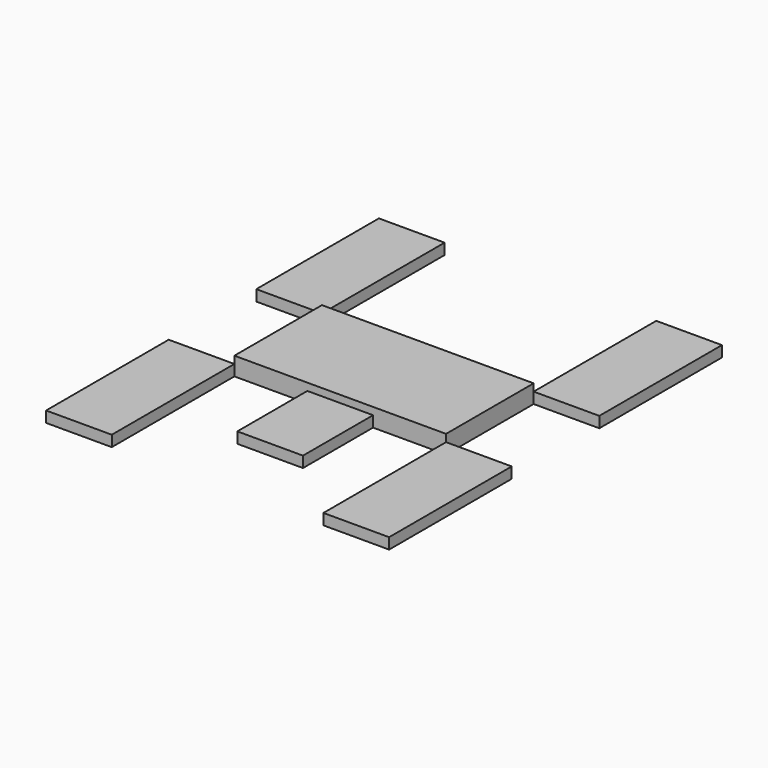
from build123d import *

# Parameters (mm, degrees)
F0_W     = 1473.2
F0_H     = 762
F1_DEPTH = 127
F3_START = -50.8
F2_W     = 457.2
F2_H     = 1066.8
F3_DEPTH = 76.2
F5_START = -50.8
F4_W     = 457.2
F4_H     = 609.6
F5_DEPTH = 76.2


with BuildPart() as f1:
    # F0 (on Top) → F1 (new body)
    with BuildSketch(Plane.XY):
        with Locations((736.6, 381)):
            Rectangle(F0_W, F0_H)
    extrude(amount=F1_DEPTH)


with BuildPart() as f3:
    # F2 (on face) → F3 (new body)
    with BuildSketch(Plane.XY.offset(127).offset(F3_START)):
        with Locations((1701.8, 1295.4)):
            Rectangle(F2_W, F2_H)
    extrude(amount=-F3_DEPTH)


with BuildPart() as f3b:
    # F2 (on face) → F3, piece 2 (new body)
    with BuildSketch(Plane.XY.offset(127).offset(F3_START)):
        with Locations((-228.6, 1295.4)):
            Rectangle(F2_W, F2_H)
    extrude(amount=-F3_DEPTH)


with BuildPart() as f3c:
    # F2 (on face) → F3, piece 3 (new body)
    with BuildSketch(Plane.XY.offset(127).offset(F3_START)):
        with Locations((-228.6, -533.4)):
            Rectangle(F2_W, F2_H)
    extrude(amount=-F3_DEPTH)


with BuildPart() as f3d:
    # F2 (on face) → F3, piece 4 (new body)
    with BuildSketch(Plane.XY.offset(127).offset(F3_START)):
        with Locations((1701.8, -533.4)):
            Rectangle(F2_W, F2_H)
    extrude(amount=-F3_DEPTH)


with BuildPart() as f5:
    # F4 (on face) → F5 (new body)
    with BuildSketch(Plane.XY.offset(127).offset(F5_START)):
        with Locations((736.6, -304.8)):
            Rectangle(F4_W, F4_H)
    extrude(amount=-F5_DEPTH)


solid = Compound([f1.part, f3.part, f3b.part, f3c.part, f3d.part, f5.part])
